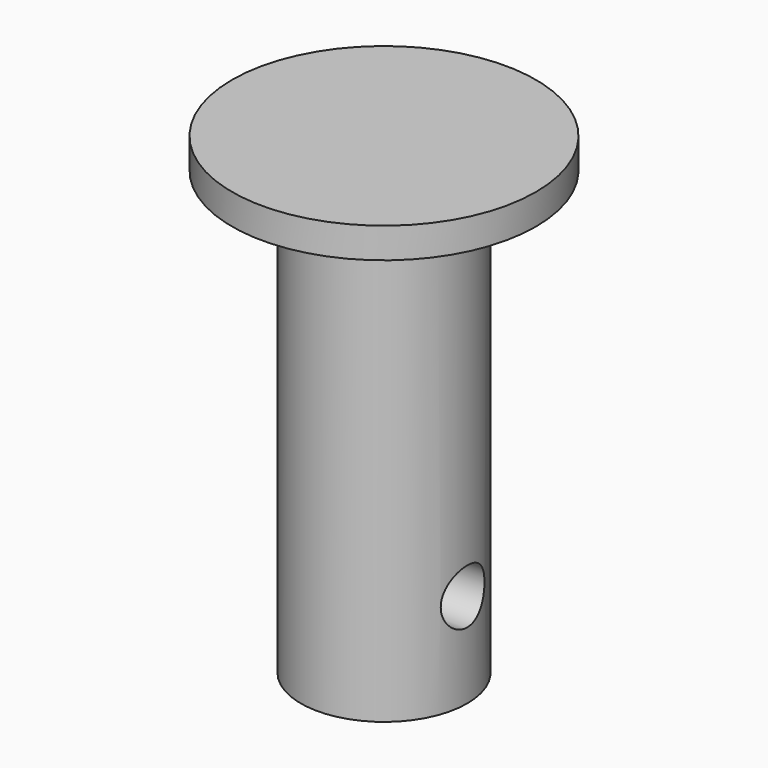
from build123d import *

# Parameters (mm, degrees)
F0_R     = 3.466188
F1_DEPTH = 9.525
F2_R     = 6.327639
F3_DEPTH = 0.635
F4_R     = 1.138516
F5_DEPTH = 12.7


with BuildPart() as f1:
    # F0 (on Top) → F1 (new body, symmetric)
    with BuildSketch(Plane.XY):
        Circle(F0_R)
    extrude(amount=F1_DEPTH, both=True)

    # F2 (on face) → F3 (join, symmetric)
    with BuildSketch(Plane.XY.offset(9.525)):
        Circle(F2_R)
    extrude(amount=F3_DEPTH, both=True)

    # F4 (on Right) → F5 (cut, symmetric)
    with BuildSketch(Plane.YZ):
        with Locations((0, -5.598677)):
            Circle(F4_R)
    extrude(amount=F5_DEPTH, both=True, mode=Mode.SUBTRACT)


solid = f1.part
